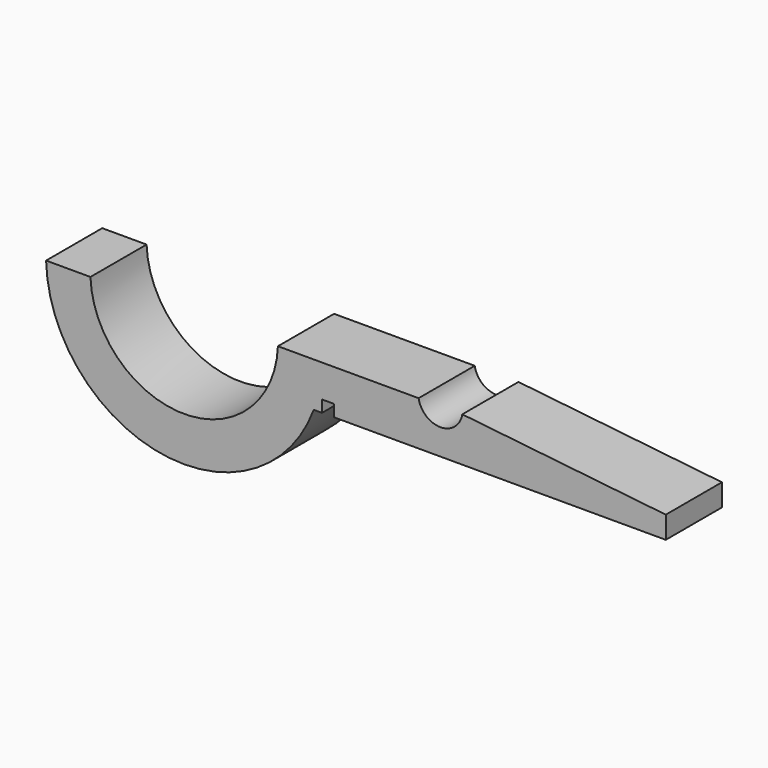
from build123d import *

# Parameters (mm, degrees)
F2_DEPTH = 9.5


with BuildPart() as f2:
    # F1 (on Front) → F2 (new body)
    with BuildSketch(Plane.XZ):
        with BuildLine():
            Line((-14.4312179421, -6.5), (30.5, -6.5))
            Line((30.5, -6.5), (30.5, -3.5))
            Line((30.5, -3.5), (2.9580398915, -0.5))
            ThreePointArc((2.9580398915, -0.5), (0, -3), (-2.9580398915, -0.5))
            Line((-2.9580398915, -0.5), (-17.160677935, -0.5))
            Line((-17.160677935, -0.5), (-17.1837798887, -0.5))
            Line((-17.1837798887, -0.5), (-22, -0.5))
            ThreePointArc((-22, -0.5), (-34.6901536634, -12.7), (-47.3803073267, -0.5))
            Line((-47.3803073267, -0.5), (-53.3834679762, -0.5))
            ThreePointArc((-53.3834679762, -0.5), (-37.745644054, -18.4486850066), (-17.1561866279, -6.5))
            Line((-17.1561866279, -6.5), (-16.0312179421, -6.5))
            Line((-16.0312179421, -6.5), (-16.0312179421, -4.9))
            Line((-16.0312179421, -4.9), (-14.4312179421, -4.9))
            Line((-14.4312179421, -4.9), (-14.4312179421, -6.5))
        make_face()
    extrude(amount=F2_DEPTH)


solid = f2.part
